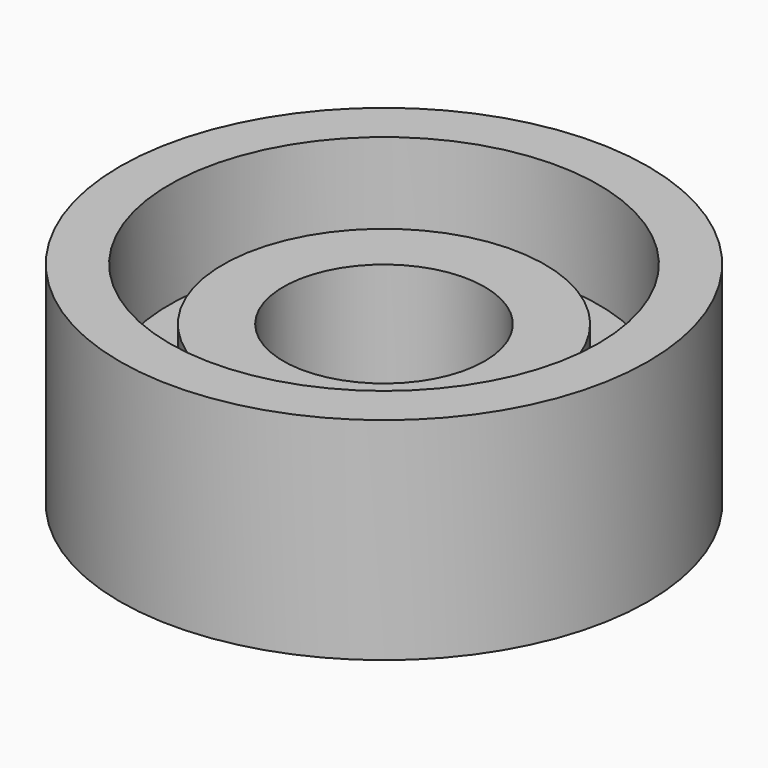
from build123d import *

# Parameters (mm, degrees)
F0_R      = 5
F1_DEPTH  = 4
F2_R      = 4.064
F2_R_2    = 3.048
F3_DEPTH  = 2
F3_FACE_R = 3.048
F4_DEPTH  = 1
F5_R      = 1.905
F6_DEPTH  = 25.4


with BuildPart() as f1:
    # F0 (on Top) → F1 (new body)
    with BuildSketch(Plane.XY):
        Circle(F0_R)
    extrude(amount=F1_DEPTH)

    # F2 (on face) → F3 (cut)
    with BuildSketch(Plane.XY.offset(4)):
        Circle(F2_R)
        Circle(F2_R_2, mode=Mode.SUBTRACT)
    extrude(amount=-F3_DEPTH, mode=Mode.SUBTRACT)

    # F3_face (on face) → F4 (cut)
    with BuildSketch(Plane.XY.offset(4)):
        Circle(F3_FACE_R)
    extrude(amount=-F4_DEPTH, mode=Mode.SUBTRACT)

    # F5 (on face) → F6 (cut)
    with BuildSketch(Plane.XY.offset(3)):
        Circle(F5_R)
    extrude(amount=-F6_DEPTH, mode=Mode.SUBTRACT)


solid = f1.part
